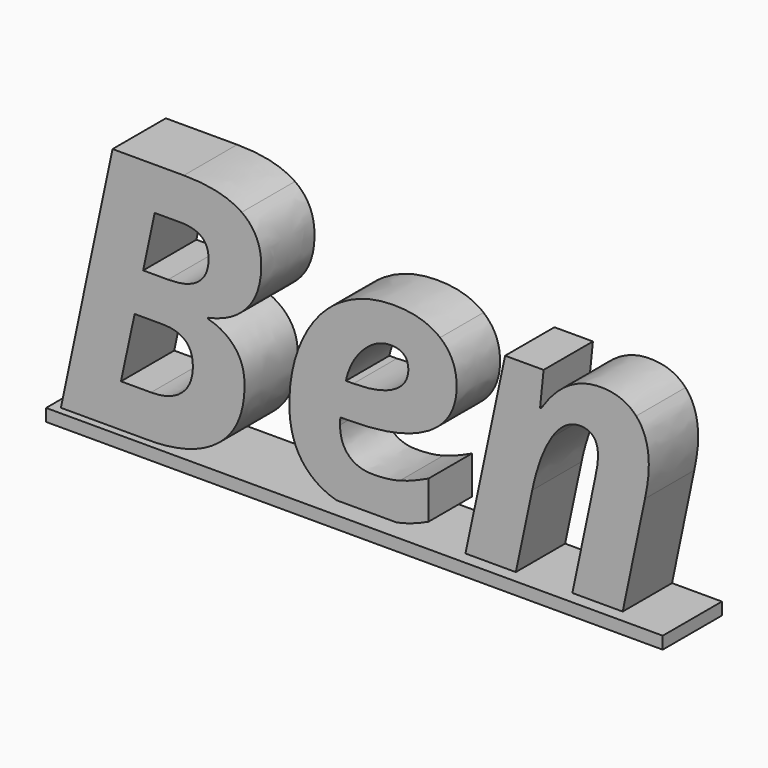
from build123d import *

# Parameters (mm, degrees)
F1_DEPTH = 2.7
F2_DEPTH = 2.2
F3_DEPTH = 2.5
F4_W     = 25
F4_H     = 0.5
F5_DEPTH = 3


with BuildPart() as f1:
    # F0 (on Front) → F1 (new body)
    with BuildSketch(Plane.XZ):
        with BuildLine():
            add(Edge.make_bspline(
                [(5.3450520833, 9.9153645833), (6.8967013889, 9.9153645833), (7.6898871528, 9.3619791667)],
                knots=[0, 0, 0, 1, 1, 1], degree=2))
            Line((5.3450520833, 9.9153645833), (2.4544270833, 9.9153645833))
            Line((2.4544270833, 9.9153645833), (0.3602430556, 0))
            Line((0.3602430556, 0), (3.8997395833, 0))
            add(Edge.make_bspline(
                [(6.7686631944, 0.8409288194), (5.7313368056, 0), (3.8997395833, 0)],
                knots=[0, 0, 0, 1, 1, 1], degree=2))
            add(Edge.make_bspline(
                [(7.8059895833, 3.2356770833), (7.8059895833, 1.6818576389), (6.7686631944, 0.8409288194)],
                knots=[0, 0, 0, 1, 1, 1], degree=2))
            add(Edge.make_bspline(
                [(7.40234375, 4.4585503472), (7.8059895833, 3.9800347222), (7.8059895833, 3.2356770833)],
                knots=[0, 0, 0, 1, 1, 1], degree=2))
            add(Edge.make_bspline(
                [(6.3216145833, 5.1128472222), (6.9986979167, 4.9370659722), (7.40234375, 4.4585503472)],
                knots=[0, 0, 0, 1, 1, 1], degree=2))
            Line((6.3216145833, 5.1128472222), (6.3216145833, 5.1540798611))
            add(Edge.make_bspline(
                [(7.9210069444, 6.0319010417), (7.3589409722, 5.37109375), (6.3216145833, 5.1540798611)],
                knots=[0, 0, 0, 1, 1, 1], degree=2))
            add(Edge.make_bspline(
                [(8.4830729167, 7.7105034722), (8.4830729167, 6.6927083333), (7.9210069444, 6.0319010417)],
                knots=[0, 0, 0, 1, 1, 1], degree=2))
            add(Edge.make_bspline(
                [(7.6898871528, 9.3619791667), (8.4830729167, 8.80859375), (8.4830729167, 7.7105034722)],
                knots=[0, 0, 0, 1, 1, 1], degree=2))
        make_face()
        with BuildLine():
            Line((4.0147569444, 1.7361111111), (2.7951388889, 1.7361111111))
            Line((2.7951388889, 1.7361111111), (3.3506944444, 4.3207465278))
            Line((3.3506944444, 4.3207465278), (4.4683159722, 4.3207465278))
            add(Edge.make_bspline(
                [(5.7096354167, 3.2204861111), (5.7096354167, 4.3207465278), (4.4683159722, 4.3207465278)],
                knots=[0, 0, 0, 1, 1, 1], degree=2))
            add(Edge.make_bspline(
                [(5.2593315972, 2.1299913194), (5.7096354167, 2.5238715278), (5.7096354167, 3.2204861111)],
                knots=[0, 0, 0, 1, 1, 1], degree=2))
            add(Edge.make_bspline(
                [(4.0147569444, 1.7361111111), (4.8090277778, 1.7361111111), (5.2593315972, 2.1299913194)],
                knots=[0, 0, 0, 1, 1, 1], degree=2))
        make_face(mode=Mode.SUBTRACT)
        with BuildLine():
            Line((4.70703125, 5.9874131944), (3.6957465278, 5.9874131944))
            Line((3.6957465278, 5.9874131944), (4.1644965278, 8.1922743056))
            Line((4.1644965278, 8.1922743056), (5.1953125, 8.1922743056))
            add(Edge.make_bspline(
                [(6.34765625, 7.2634548611), (6.34765625, 8.1922743056), (5.1953125, 8.1922743056)],
                knots=[0, 0, 0, 1, 1, 1], degree=2))
            add(Edge.make_bspline(
                [(5.9375, 6.3172743056), (6.34765625, 6.6471354167), (6.34765625, 7.2634548611)],
                knots=[0, 0, 0, 1, 1, 1], degree=2))
            add(Edge.make_bspline(
                [(4.70703125, 5.9874131944), (5.52734375, 5.9874131944), (5.9375, 6.3172743056)],
                knots=[0, 0, 0, 1, 1, 1], degree=2))
        make_face(mode=Mode.SUBTRACT)
    extrude(amount=F1_DEPTH)



with BuildPart() as f2:
    # F0 (on Front) → F2 (new body)
    with BuildSketch(Plane.XZ):
        with BuildLine():
            add(Edge.make_bspline(
                [(12.2222222222, -0.13671875), (10.7964409722, -0.13671875), (10.009765625, 0.6304253472)],
                knots=[0, 0, 0, 1, 1, 1], degree=2))
            add(Edge.make_bspline(
                [(14.8654513889, 0.4470486111), (13.7000868056, -0.13671875), (12.2222222222, -0.13671875)],
                knots=[0, 0, 0, 1, 1, 1], degree=2))
            Line((14.8654513889, 0.4470486111), (14.8654513889, 1.9878472222))
            add(Edge.make_bspline(
                [(13.7000868056, 1.533203125), (14.1818576389, 1.6623263889), (14.8654513889, 1.9878472222)],
                knots=[0, 0, 0, 1, 1, 1], degree=2))
            add(Edge.make_bspline(
                [(12.6280381944, 1.4040798611), (13.2183159722, 1.4040798611), (13.7000868056, 1.533203125)],
                knots=[0, 0, 0, 1, 1, 1], degree=2))
            add(Edge.make_bspline(
                [(11.6276041667, 1.7599826389), (11.9769965278, 1.4040798611), (12.6280381944, 1.4040798611)],
                knots=[0, 0, 0, 1, 1, 1], degree=2))
            add(Edge.make_bspline(
                [(11.2782118056, 2.7322048611), (11.2782118056, 2.1158854167), (11.6276041667, 1.7599826389)],
                knots=[0, 0, 0, 1, 1, 1], degree=2))
            Line((11.2782118056, 2.7322048611), (11.2782118056, 2.8689236111))
            Line((11.2782118056, 2.8689236111), (11.2912326389, 3.0121527778))
            Line((11.2912326389, 3.0121527778), (11.6384548611, 3.0121527778))
            add(Edge.make_bspline(
                [(14.873046875, 3.7000868056), (13.7413194444, 3.0121527778), (11.6384548611, 3.0121527778)],
                knots=[0, 0, 0, 1, 1, 1], degree=2))
            add(Edge.make_bspline(
                [(16.0047743056, 5.6553819444), (16.0047743056, 4.3880208333), (14.873046875, 3.7000868056)],
                knots=[0, 0, 0, 1, 1, 1], degree=2))
            add(Edge.make_bspline(
                [(15.3342013889, 7.1712239583), (16.0047743056, 6.6189236111), (16.0047743056, 5.6553819444)],
                knots=[0, 0, 0, 1, 1, 1], degree=2))
            add(Edge.make_bspline(
                [(13.4613715278, 7.7235243056), (14.6636284722, 7.7235243056), (15.3342013889, 7.1712239583)],
                knots=[0, 0, 0, 1, 1, 1], degree=2))
            add(Edge.make_bspline(
                [(11.298828125, 7.1169704861), (12.2547743056, 7.7235243056), (13.4613715278, 7.7235243056)],
                knots=[0, 0, 0, 1, 1, 1], degree=2))
            add(Edge.make_bspline(
                [(9.7829861111, 5.3537326389), (10.3428819444, 6.5104166667), (11.298828125, 7.1169704861)],
                knots=[0, 0, 0, 1, 1, 1], degree=2))
            add(Edge.make_bspline(
                [(9.2230902778, 2.7951388889), (9.2230902778, 4.1970486111), (9.7829861111, 5.3537326389)],
                knots=[0, 0, 0, 1, 1, 1], degree=2))
            add(Edge.make_bspline(
                [(10.009765625, 0.6304253472), (9.2230902778, 1.3975694444), (9.2230902778, 2.7951388889)],
                knots=[0, 0, 0, 1, 1, 1], degree=2))
        make_face()
        with BuildLine():
            add(Edge.make_bspline(
                [(13.3333333333, 6.2521701389), (12.7365451389, 6.2521701389), (12.2081163194, 5.7096354167)],
                knots=[0, 0, 0, 1, 1, 1], degree=2))
            add(Edge.make_bspline(
                [(14.0451388889, 5.6076388889), (14.0451388889, 6.2521701389), (13.3333333333, 6.2521701389)],
                knots=[0, 0, 0, 1, 1, 1], degree=2))
            add(Edge.make_bspline(
                [(13.4592013889, 4.716796875), (14.0451388889, 5.0455729167), (14.0451388889, 5.6076388889)],
                knots=[0, 0, 0, 1, 1, 1], degree=2))
            add(Edge.make_bspline(
                [(11.8207465278, 4.3880208333), (12.8732638889, 4.3880208333), (13.4592013889, 4.716796875)],
                knots=[0, 0, 0, 1, 1, 1], degree=2))
            Line((11.8207465278, 4.3880208333), (11.5169270833, 4.3880208333))
            add(Edge.make_bspline(
                [(12.2081163194, 5.7096354167), (11.6796875, 5.1671006944), (11.5169270833, 4.3880208333)],
                knots=[0, 0, 0, 1, 1, 1], degree=2))
        make_face(mode=Mode.SUBTRACT)
    extrude(amount=F2_DEPTH)


with BuildPart() as f3:
    # F0 (on Front) → F3 (new body)
    with BuildSketch(Plane.XZ):
        with BuildLine():
            Line((20.9375, 0), (22.9774305556, 0))
            Line((22.9774305556, 0), (23.8802083333, 4.3207465278))
            add(Edge.make_bspline(
                [(24.0364583333, 5.5403645833), (24.0364583333, 5.0455729167), (23.8802083333, 4.3207465278)],
                knots=[0, 0, 0, 1, 1, 1], degree=2))
            add(Edge.make_bspline(
                [(23.5243055556, 7.158203125), (24.0364583333, 6.5928819444), (24.0364583333, 5.5403645833)],
                knots=[0, 0, 0, 1, 1, 1], degree=2))
            add(Edge.make_bspline(
                [(22.0768229167, 7.7235243056), (23.0121527778, 7.7235243056), (23.5243055556, 7.158203125)],
                knots=[0, 0, 0, 1, 1, 1], degree=2))
            add(Edge.make_bspline(
                [(19.66796875, 6.1783854167), (20.6575520833, 7.7235243056), (22.0768229167, 7.7235243056)],
                knots=[0, 0, 0, 1, 1, 1], degree=2))
            Line((19.66796875, 6.1783854167), (19.6267361111, 6.1783854167))
            Line((19.6267361111, 6.1783854167), (19.7699652778, 7.5824652778))
            Line((19.7699652778, 7.5824652778), (18.2096354167, 7.5824652778))
            Line((18.2096354167, 7.5824652778), (16.6037326389, 0))
            Line((16.6037326389, 0), (18.6436631944, 0))
            Line((18.6436631944, 0), (19.3098958333, 3.1401909722))
            add(Edge.make_bspline(
                [(20.1095920139, 5.2962239583), (19.6006944444, 4.5225694444), (19.3098958333, 3.1401909722)],
                knots=[0, 0, 0, 1, 1, 1], degree=2))
            add(Edge.make_bspline(
                [(21.2413194444, 6.0698784722), (20.6184895833, 6.0698784722), (20.1095920139, 5.2962239583)],
                knots=[0, 0, 0, 1, 1, 1], degree=2))
            add(Edge.make_bspline(
                [(21.9748263889, 5.2365451389), (21.9748263889, 6.0698784722), (21.2413194444, 6.0698784722)],
                knots=[0, 0, 0, 1, 1, 1], degree=2))
            add(Edge.make_bspline(
                [(21.8663194444, 4.4292534722), (21.9748263889, 4.8893229167), (21.9748263889, 5.2365451389)],
                knots=[0, 0, 0, 1, 1, 1], degree=2))
            Line((21.8663194444, 4.4292534722), (20.9375, 0))
        make_face()
    extrude(amount=F3_DEPTH)


with BuildPart() as f1_1:
    add(f1.part)

    add(f2.part)  # F5 merges F2

    add(f3.part)  # F5 merges F3
    # F4 (on Front) → F5 (join)
    with BuildSketch(Plane.XZ):
        with Locations((12.5, -0.25)):
            Rectangle(F4_W, F4_H)
    extrude(amount=F5_DEPTH)


solid = f1_1.part
